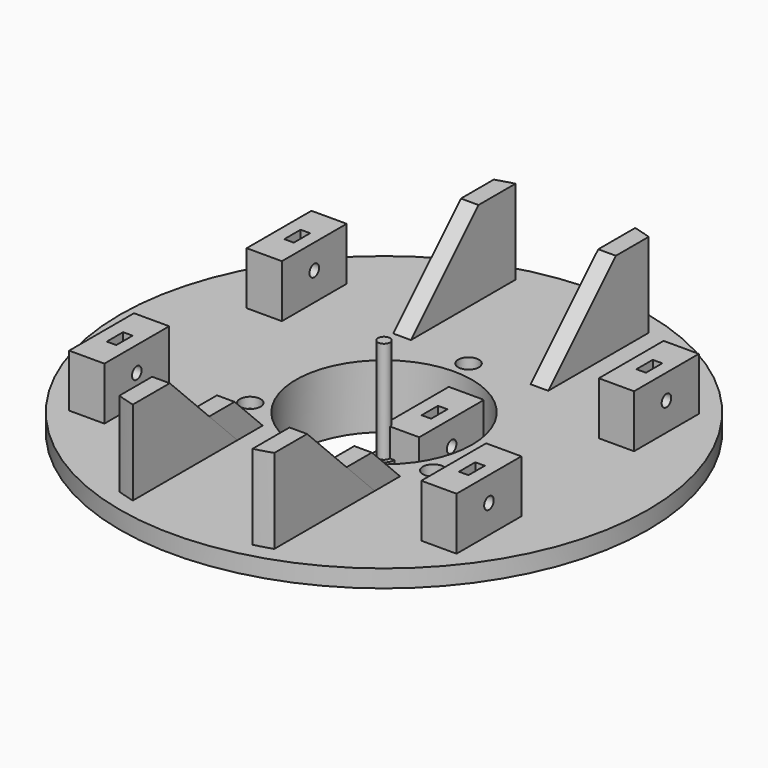
from build123d import *

# Parameters (mm, degrees)
CYLINDER_R               = 2.95
CYLINDER_DEPTH           = 7
CYLINDER001_R            = 1.7
CYLINDER001_DEPTH        = 30
PAD002_DEPTH             = 2.7
CLONE029_PITCH_ANGLE     = -90
CLONE030_PITCH_ANGLE     = -90
BOX003_W                 = 10
BOX003_H                 = 23
BOX003_DEPTH             = 15
PAD006_DEPTH             = 28
PAD005_DEPTH             = 50
PAD007_DEPTH             = 22
CLONE032_PLACEMENT_ANGLE = 180
ARRAY005_COUNT           = 3
ARRAY004_X_COUNT         = 2
ARRAY004_X_PITCH         = 100
ARRAY004_Y_COUNT         = 2
ARRAY004_Y_PITCH         = 63


with BuildPart() as m3bolthead:
    # Cylinder → Cylinder (new body)
    with BuildSketch(Plane.XY):
        Circle(CYLINDER_R)
    extrude(amount=CYLINDER_DEPTH)


with BuildPart() as m3bolt:
    # Cylinder001 → Cylinder001 (new body)
    with BuildSketch(Plane.XY.offset(6)):
        Circle(CYLINDER001_R)
    extrude(amount=CYLINDER001_DEPTH)

    # Fusion: union M3BoltHead
    add(m3bolthead.part)


with BuildPart() as m3nuthousing:
    # Sketch003 → Pad002 (new body)
    with BuildSketch(Plane.XY):
        Polygon((0, 0), (1.674316, 2.9), (21.674316, 2.9), (21.674316, -2.9), (1.674316, -2.9), align=None)
    extrude(amount=PAD002_DEPTH)


with BuildPart() as clone_of_m3nuthousing006:
    # Clone029 base: copy of M3NutHousing
    add(m3nuthousing.part)


with BuildPart() as clone_of_m3nuthousing006_1:
    # Clone029 pitch: moved
    add(clone_of_m3nuthousing006.part.rotate(Axis((0, 0, 0), (0, 1, 0)), CLONE029_PITCH_ANGLE))


with BuildPart() as clone_of_m3nuthousing006_2:
    # Clone029 placement: moved
    add(clone_of_m3nuthousing006_1.part.moved(Location((6.5, 11.5, 4.5))))


with BuildPart() as fusion012:
    # Clone030 base: copy of M3Bolt
    add(m3bolt.part)


with BuildPart() as fusion012_1:
    # Clone030 pitch: moved
    add(fusion012.part.rotate(Axis((0, 0, 0), (0, 1, 0)), CLONE030_PITCH_ANGLE))


with BuildPart() as fusion012_2:
    # Clone030 placement: moved
    add(fusion012_1.part.moved(Location((19.5, 11.5, 8))))

    # Fusion012: union Clone of M3NutHousing006
    add(clone_of_m3nuthousing006_2.part)


with BuildPart() as obj1:
    # Box003 → Box003 (new body)
    with BuildSketch(Plane.XY):
        with Locations((5, 11.5)):
            Rectangle(BOX003_W, BOX003_H)
    extrude(amount=BOX003_DEPTH)

    # Cut014: cut Fusion012
    add(fusion012_2.part, mode=Mode.SUBTRACT)


with BuildPart() as pad006:
    # Sketch017 → Pad006 (new body)
    with BuildSketch(Plane.XY):
        with BuildLine():
            Line((-22, 0), (22, 0))
            Line((22, 0), (22, -43.452991))
            ThreePointArc((-22, -43.452991), (0, -47), (22, -43.452991))
            Line((-22, -43.452991), (-22, 0))
        make_face()
    extrude(amount=PAD006_DEPTH)


with BuildPart() as common002:
    # Sketch016 → Pad005 (new body)
    with BuildSketch(Plane.XZ):
        Polygon((-22, 28), (-17, 28), (-17, 4), (17, 4), (17, 28), (22, 28), (22, 0), (-22, 0), align=None)
    extrude(amount=PAD005_DEPTH)

    # Common002: intersect Pad006
    add(pad006.part, mode=Mode.INTERSECT)


with BuildPart() as fansupport:
    # Sketch018 → Pad007 (new body, symmetric)
    with BuildSketch(Plane.YZ):
        Polygon((-50, 0), (-50, 28), (-31.8, 28), (-3.8, 0), align=None)
    extrude(amount=PAD007_DEPTH, both=True)

    # Common003: intersect Common002
    add(common002.part, mode=Mode.INTERSECT)


with BuildPart() as array005:
    # Clone032 base: copy of M3Bolt
    add(m3bolt.part)


with BuildPart() as array005_1:
    # Clone032 placement: moved
    add(array005.part.moved(Location((0, 30, 22))).rotate(Axis((0, 30, 22), (1, 0, 0)), CLONE032_PLACEMENT_ANGLE))

    # Array005: Array005 ×3 about axis
    array005_axis = Axis((0, 0, 0), (0, 0, 1))


with BuildPart() as array005_2:
    add(array005_1.part)
    for i in range(1, ARRAY005_COUNT):
        add(array005_1.part.rotate(array005_axis, i * 360 / ARRAY005_COUNT))


with BuildPart() as clone_of_fansupport:
    # Clone base: copy of FanSupport
    add(fansupport.part)


with BuildPart() as clone_of_fansupport_1:
    # Clone placement: moved
    add(clone_of_fansupport.part.moved(Location((0, -23, 14))))


with BuildPart() as part_mirroring:
    # Part__Mirroring: instance of Clone of FanSupport
    add(clone_of_fansupport_1.part.mirror(Plane(origin=(0, 0, 0), x_dir=(1, 0, 0), z_dir=(0, 1, 0))))


with BuildPart() as array004:
    # Clone031 base: copy of obj1
    add(obj1.part)


with BuildPart() as array004_1:
    # Clone031 placement: moved
    add(array004.part.moved(Location((45, 20, 18))))

    # Array004 X: Array004 ×2


with BuildPart() as array004_2:
    add(array004_1.part)
    with Locations(*[(-i * ARRAY004_X_PITCH, 0, 0) for i in range(1, ARRAY004_X_COUNT)]):
        add(array004_1.part)

    # Array004 Y: Array004 ×2


with BuildPart() as array004_3:
    add(array004_2.part)
    with Locations(*[(0, -i * ARRAY004_Y_PITCH, 0) for i in range(1, ARRAY004_Y_COUNT)]):
        add(array004_2.part)


with BuildPart() as obj2:
    # Sketch008 → Revolution001 (revolve)
    with BuildSketch(Plane.XZ):
        Polygon((25, 0), (35, 0), (35, 6), (47, 6), (47, 13), (75, 13), (75, 18), (25, 18), align=None)
    revolve(axis=Axis((0, 0, 0), (0, 0, 1)))

    # Fusion013: union Array004
    add(array004_3.part)

    # Fusion014: union Part__Mirroring, Clone of FanSupport
    add(part_mirroring.part)
    add(clone_of_fansupport_1.part)

    # Cut: cut Array005
    add(array005_2.part, mode=Mode.SUBTRACT)


solid = Compound([m3bolt.part, m3nuthousing.part, obj1.part, fansupport.part, obj2.part])
